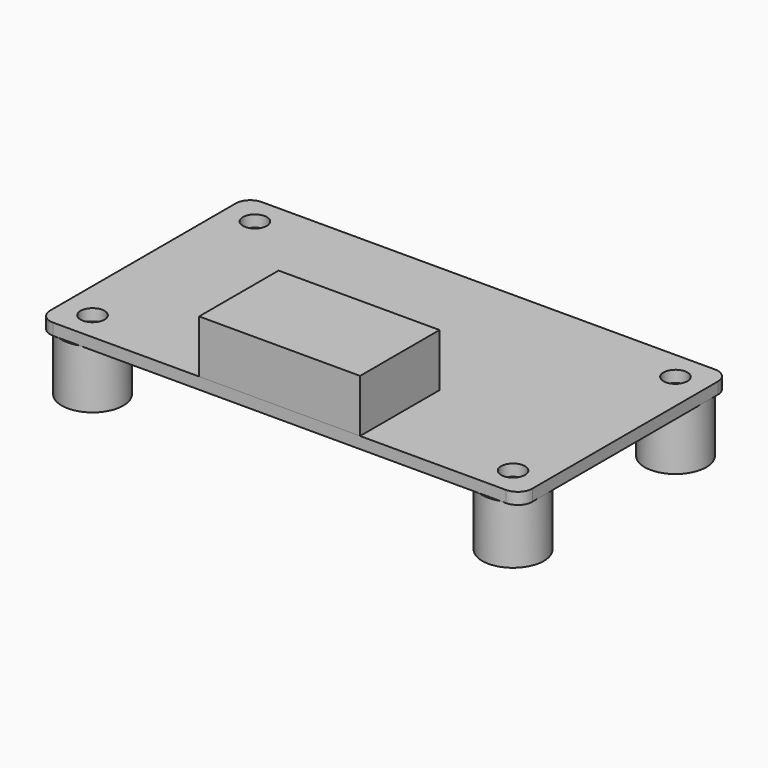
from build123d import *

# Parameters (mm, degrees)
F0_W     = 66.5
F0_H     = 36
F0_R     = 1.65
F1_DEPTH = 1.6
F2_R     = 2
F3_W     = 22.2
F3_H     = 13.7
F4_DEPTH = 7.3
F5_R     = 4.25
F5_R_2   = 2.25
F6_DEPTH = 8


with BuildPart() as f1:
    # F0 (on Top) → F1 (new body)
    with BuildSketch(Plane.XY):
        with Locations((33.25, 18)):
            Rectangle(F0_W, F0_H)
        with Locations((4.25, 4)):
            Circle(F0_R, mode=Mode.SUBTRACT)
        with Locations((62.25, 4)):
            Circle(F0_R, mode=Mode.SUBTRACT)
        with Locations((4.25, 32)):
            Circle(F0_R, mode=Mode.SUBTRACT)
        with Locations((62.25, 32)):
            Circle(F0_R, mode=Mode.SUBTRACT)
    extrude(amount=F1_DEPTH)

    # F2
    f2_edges = [f1.edges().sort_by_distance(p)[0] for p in [
        (66.5, 0, 0.8),
        (0, 0, 0.8),
        (0, 36, 0.8),
        (66.5, 36, 0.8),
    ]]
    fillet(f2_edges, radius=F2_R)


with BuildPart() as f4:
    # F3 (on face) → F4 (new body)
    with BuildSketch(Plane.XY.offset(1.6)):
        with Locations((33.25, 6.85)):
            Rectangle(F3_W, F3_H)
    extrude(amount=F4_DEPTH)


with BuildPart() as f6:
    # F5 (on face) → F6 (new body)
    with BuildSketch(Plane(origin=(0, 0, 0), x_dir=(1, 0, 0), z_dir=(0, 0, -1))):
        with Locations((4.25, -4)):
            Circle(F5_R)
        with Locations((4.25, -4)):
            Circle(F5_R_2, mode=Mode.SUBTRACT)
        with Locations((62.25, -4)):
            Circle(F5_R)
        with Locations((62.25, -4)):
            Circle(F5_R_2, mode=Mode.SUBTRACT)
        with Locations((4.25, -32)):
            Circle(F5_R)
        with Locations((4.25, -32)):
            Circle(F5_R_2, mode=Mode.SUBTRACT)
        with Locations((62.25, -32)):
            Circle(F5_R)
        with Locations((62.25, -32)):
            Circle(F5_R_2, mode=Mode.SUBTRACT)
    extrude(amount=F6_DEPTH)


solid = Compound([f1.part, f4.part, f6.part])
